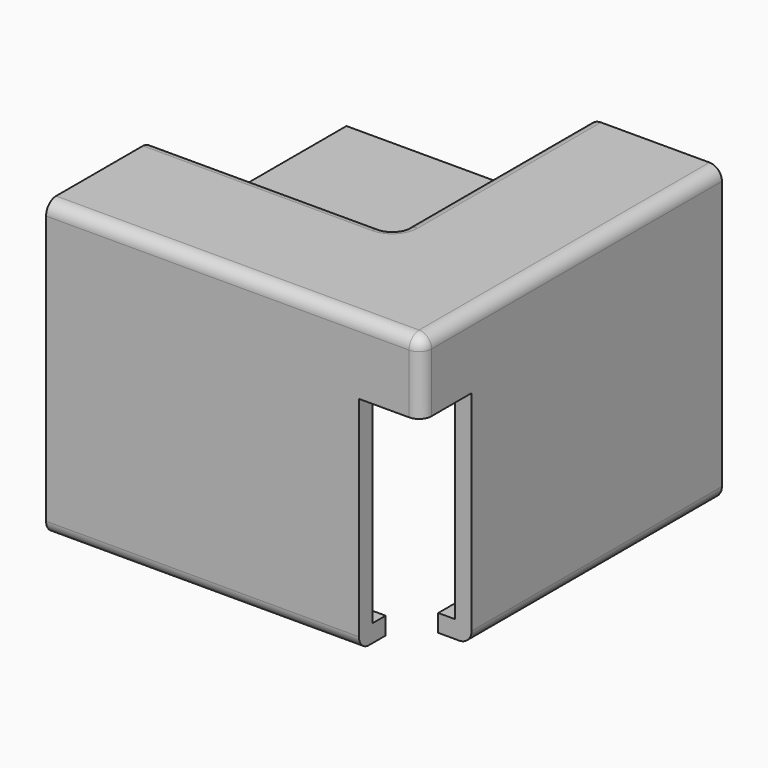
from build123d import *

# Parameters (mm, degrees)
F0_W          = 45
F0_H          = 35.2
F1_DEPTH      = 45
F2_W          = 29
F2_H          = 29
F3_DEPTH      = 22.5
F4_W          = 47
F4_H          = 47
F5_DEPTH      = 15.5
F6_W          = 47
F6_H          = 47
F7_DEPTH      = 28
F8_W          = 15
F8_H          = 15
F9_DEPTH      = 24.7
F9_DEPTH_BACK = 9
F11_START     = 7.5
F11_DEPTH     = 8
F13_START     = 7.5
F13_DEPTH     = 1.6
F15_START     = 4.7
F15_DEPTH     = 2.8
F17_START     = 4.7
F16_W         = 19
F16_H         = 19
F17_DEPTH     = 2.6
F18_R         = 1.5


with BuildPart() as f1:
    # F0 (on Right) → F1 (new body)
    with BuildSketch(Plane.YZ):
        Rectangle(F0_W, F0_H)
    extrude(amount=F1_DEPTH)

    # F2 (on Top) → F3 (cut, symmetric)
    with BuildSketch(Plane.XY):
        with Locations((14.5, 8)):
            Rectangle(F2_W, F2_H)
    extrude(amount=F3_DEPTH, both=True, mode=Mode.SUBTRACT)

    # F4 (on Top) → F5 (cut, symmetric)
    with BuildSketch(Plane.XY):
        with Locations((19.5, 3)):
            Rectangle(F4_W, F4_H)
    extrude(amount=F5_DEPTH, both=True, mode=Mode.SUBTRACT)

    # F6 (on Top) → F7 (cut)
    with BuildSketch(Plane.XY):
        with Locations((17.5, 5)):
            Rectangle(F6_W, F6_H)
    extrude(amount=-F7_DEPTH, mode=Mode.SUBTRACT)

    # F8 (on Top) → F9 (cut, two sides)
    with BuildSketch(Plane.XY) as f9_sk:
        with Locations((45, -22.5)):
            Rectangle(F8_W, F8_H)
    extrude(amount=-F9_DEPTH, mode=Mode.SUBTRACT)
    extrude(f9_sk.sketch, amount=F9_DEPTH_BACK, mode=Mode.SUBTRACT)

    # F10 (on Top) → F11 (join)
    with BuildSketch(Plane.XY.offset(F11_START)):
        Polygon((31, 22.5), (29, 22.5), (29, -6.5), (0, -6.5), (0, -8.5), (31, -8.5), align=None)
    extrude(amount=F11_DEPTH)

    # F12 (on Top) → F13 (join)
    with BuildSketch(Plane.XY.offset(F13_START)):
        Polygon((29, -6.5), (29, 22.5), (19, 22.5), (19, 3.5), (0, 3.5), (0, -6.5), align=None)
    extrude(amount=F13_DEPTH)

    # F14 (on Top) → F15 (join)
    with BuildSketch(Plane.XY.offset(F15_START)):
        Polygon((21, 22.5), (19, 22.5), (19, 3.5), (0, 3.5), (0, 1.5), (21, 1.5), align=None)
    extrude(amount=F15_DEPTH)

    # F16 (on Top) → F17 (join)
    with BuildSketch(Plane.XY.offset(F17_START)):
        with Locations((9.5, 13)):
            Rectangle(F16_W, F16_H)
    extrude(amount=F17_DEPTH)

    # F18
    f18_edges = [f1.edges().sort_by_distance(p)[0] for p in [
        (22.5, -22.5, 17.6),
        (45, 0, 17.6),
        (45, 3.75, -17.6),
        (18.75, -22.5, -17.6),
        (14.5, -6.5, 17.6),
        (29, 8, 17.6),
        (29, -6.5, 13.35),
        (45, -22.5, 13.3),
        (29, 8, 9.1),
        (14.5, -6.5, 9.1),
        (19, 13, 9.1),
        (9.5, 3.5, 9.1),
        (19, 3.5, 8.2),
        (31, 7, 7.5),
        (21, 12, 4.7),
        (10.5, 1.5, 4.7),
        (15.5, -8.5, 7.5),
        (21, 1.5, 6.1),
        (31, -8.5, 11.5),
    ]]
    fillet(f18_edges, radius=F18_R)


solid = f1.part
